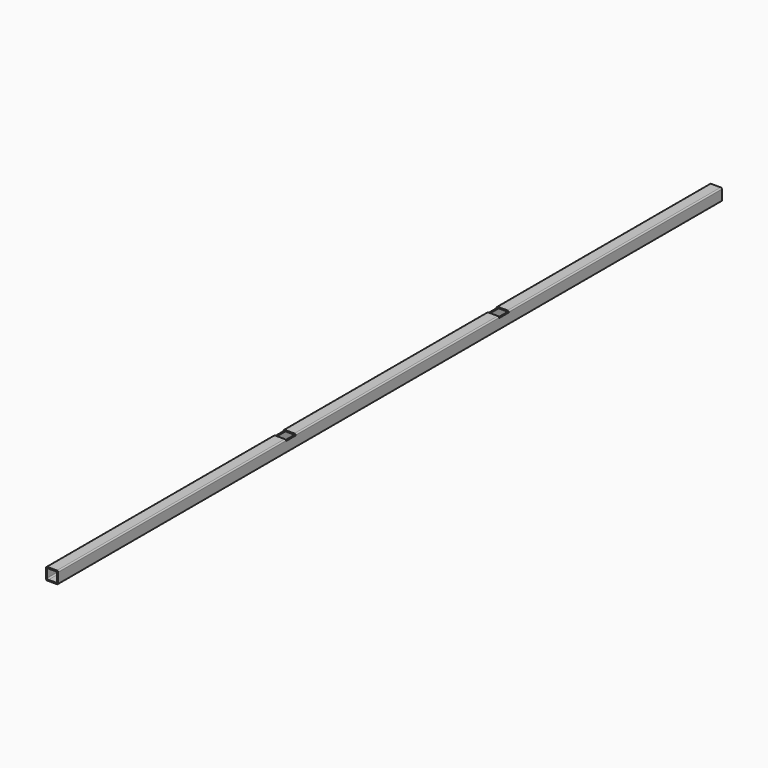
from build123d import *

# Parameters (mm, degrees)
F0_W     = 50.8
F0_H     = 50.8
F0_W_2   = 41.275
F0_H_2   = 41.275
F1_DEPTH = 1739.9
F2_R     = 5.08
F3_W     = 50.8
F3_H     = 50.8
F4_DEPTH = 6.35


with BuildPart() as f1:
    # F0 (on Front) → F1 (new body, symmetric)
    with BuildSketch(Plane.XZ):
        with Locations((25.4, 25.4)):
            Rectangle(F0_W, F0_H)
        with Locations((25.4, 25.4)):
            Rectangle(F0_W_2, F0_H_2, mode=Mode.SUBTRACT)
    extrude(amount=F1_DEPTH, both=True)

    # F2
    f2_edges = [f1.edges().sort_by_distance(p)[0] for p in [
        (50.8, 0, 50.8),
        (0, 0, 50.8),
        (4.7625, 0, 46.0375),
        (46.0375, 0, 4.7625),
        (4.7625, 0, 4.7625),
        (46.0375, 0, 46.0375),
        (0, 0, 0),
        (50.8, 0, 0),
    ]]
    fillet(f2_edges, radius=F2_R)

    # F3 (on face) → F4 (cut)
    with BuildSketch(Plane.XY.offset(50.8)):
        with Locations((25.4, -520.7)):
            Rectangle(F3_W, F3_H)
        with Locations((25.4, 596.9)):
            Rectangle(F3_W, F3_H)
    extrude(amount=-F4_DEPTH, mode=Mode.SUBTRACT)


solid = f1.part
